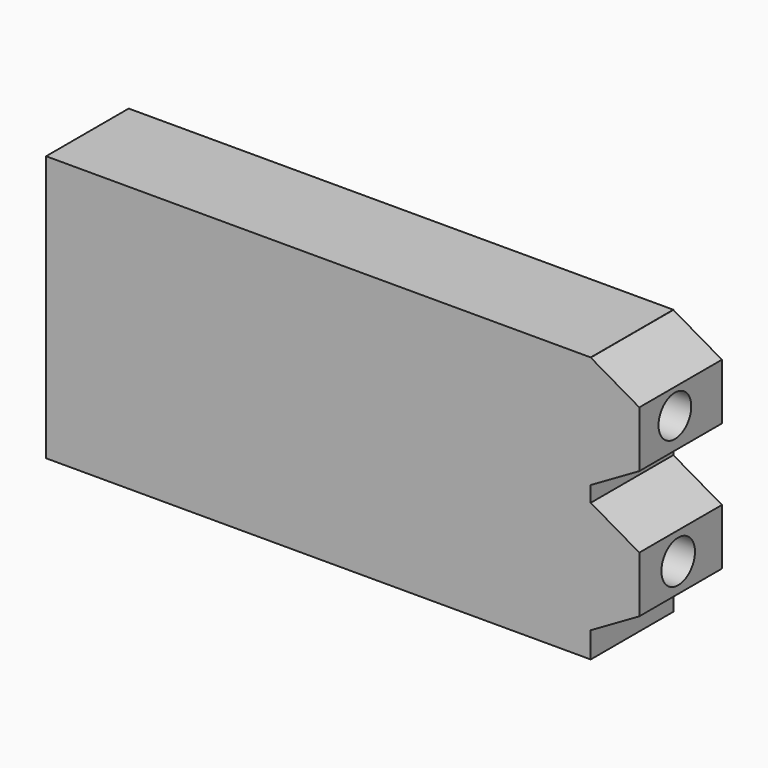
from build123d import *

# Parameters (mm, degrees)
F0_W     = 42.183492
F0_H     = 20.596634
F2_DEPTH = 8
F3_DEPTH = 8
F4_R     = 1.624086
F5_DEPTH = 10
F6_R     = 1.584356
F7_DEPTH = 10


with BuildPart() as f2:
    # F0 (on Front) → F2 (new body)
    with BuildSketch(Plane.XZ):
        with Locations((-21.091746, 19.012278)):
            Rectangle(F0_W, F0_H)
    extrude(amount=F2_DEPTH)

    # F1 (on face) → F3 (join)
    with BuildSketch(Plane.XZ):
        Polygon((-3.762846, 27.126093), (-3.762846, 22.781133), (0, 20.608653), (3.762846, 22.781133), (3.762846, 27.126093), (0, 29.298573), align=None)
        Polygon((3.762846, 12.878906), (3.762846, 17.223866), (0, 19.396346), (-3.762846, 17.223866), (-3.762846, 12.878906), (0, 10.706426), align=None)
    extrude(amount=F3_DEPTH)

    # F4 (on face) → F5 (cut)
    with BuildSketch(Plane.YZ.offset(3.762846)):
        with Locations((-4.233076, 15.095317)):
            Circle(F4_R)
    extrude(amount=-F5_DEPTH, mode=Mode.SUBTRACT)

    # F6 (on face) → F7 (cut)
    with BuildSketch(Plane.YZ.offset(3.762846)):
        with Locations((-4.555025, 25.151657)):
            Circle(F6_R)
    extrude(amount=-F7_DEPTH, mode=Mode.SUBTRACT)


solid = f2.part
